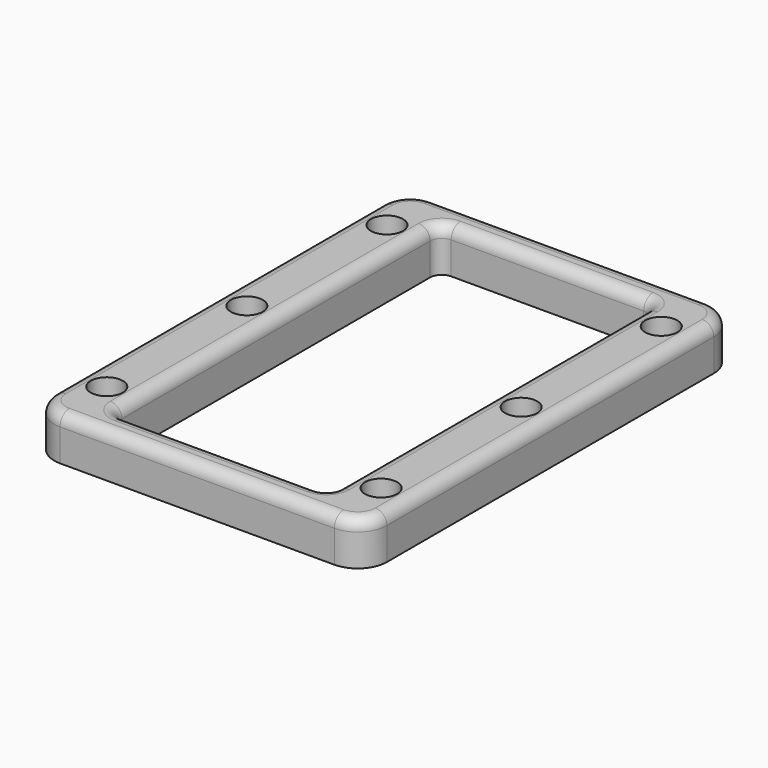
from build123d import *

# Parameters (mm, degrees)
F0_R     = 2.75
F1_DEPTH = 7.5
F2_R     = 2


with BuildPart() as f1:
    # F0 (on Top) → F1 (new body)
    with BuildSketch(Plane.XY):
        with BuildLine():
            Line((23.5, 40), (-23.5, 40))
            ThreePointArc((-23.5, 40), (-27.035534, 38.535534), (-28.5, 35))
            Line((-28.5, 35), (-28.5, -35))
            ThreePointArc((-28.5, -35), (-27.035534, -38.535534), (-23.5, -40))
            Line((-23.5, -40), (23.5, -40))
            ThreePointArc((23.5, -40), (27.035534, -38.535534), (28.5, -35))
            Line((28.5, -35), (28.5, 35))
            ThreePointArc((28.5, 35), (27.035534, 38.535534), (23.5, 40))
        make_face()
        with Locations((-23.5, -30)):
            Circle(F0_R, mode=Mode.SUBTRACT)
        with Locations((23.5, -30)):
            Circle(F0_R, mode=Mode.SUBTRACT)
        with Locations((-23.5, 0)):
            Circle(F0_R, mode=Mode.SUBTRACT)
        with Locations((-23.5, 30)):
            Circle(F0_R, mode=Mode.SUBTRACT)
        with BuildLine():
            ThreePointArc((-18.5, 33), (-17.914214, 34.414214), (-16.5, 35))
            Line((-16.5, 35), (16.5, 35))
            ThreePointArc((16.5, 35), (17.914214, 34.414214), (18.5, 33))
            Line((18.5, 33), (18.5, -33))
            ThreePointArc((18.5, -33), (17.914214, -34.414214), (16.5, -35))
            Line((16.5, -35), (-16.5, -35))
            ThreePointArc((-16.5, -35), (-17.914214, -34.414214), (-18.5, -33))
            Line((-18.5, -33), (-18.5, 33))
        make_face(mode=Mode.SUBTRACT)
        with Locations((23.5, 0)):
            Circle(F0_R, mode=Mode.SUBTRACT)
        with Locations((23.5, 30)):
            Circle(F0_R, mode=Mode.SUBTRACT)
    extrude(amount=F1_DEPTH)

    # F2
    f2_edges = [f1.edges().sort_by_distance(p)[0] for p in [
        (-18.5, 0, 7.5),
        (0, -40, 7.5),
    ]]
    fillet(f2_edges, radius=F2_R)


solid = f1.part
